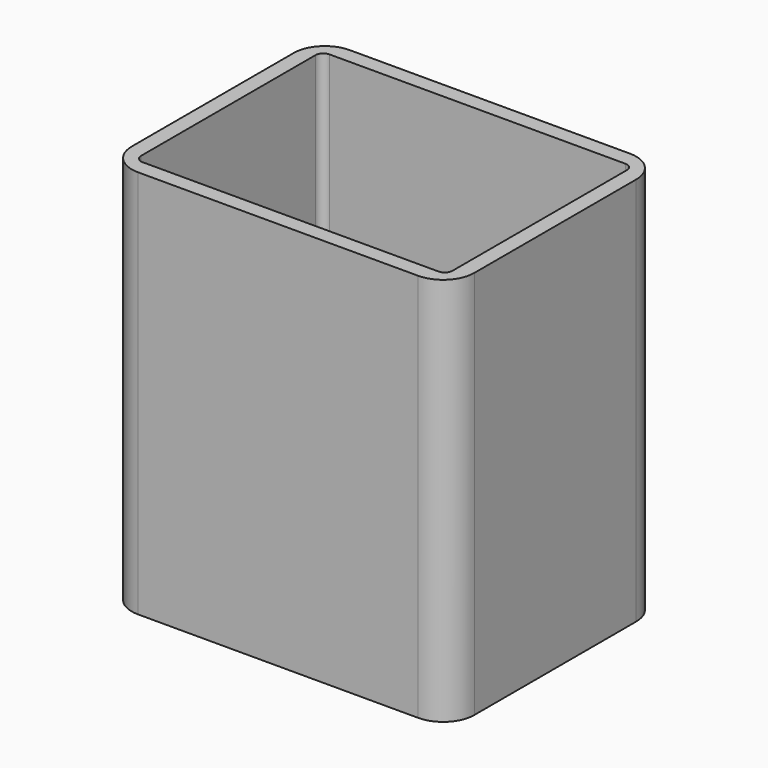
from build123d import *

# Parameters (mm, degrees)
F0_W     = 22
F0_H     = 17
F0_W_2   = 20
F0_H_2   = 15
F1_DEPTH = 25
F2_R     = 2
F3_W     = 0.3
F3_H     = 1
F4_DEPTH = 3
F5_R     = 0.5


with BuildPart() as f1:
    # F0 (on Top) → F1 (new body)
    with BuildSketch(Plane.XY):
        with Locations((11, 8.5)):
            Rectangle(F0_W, F0_H)
        with Locations((11, 8.5)):
            Rectangle(F0_W_2, F0_H_2, mode=Mode.SUBTRACT)
    extrude(amount=F1_DEPTH)

    # F2
    f2_edges = [f1.edges().sort_by_distance(p)[0] for p in [
        (0, 17, 12.5),
        (0, 0, 12.5),
        (22, 0, 12.5),
        (22, 17, 12.5),
    ]]
    fillet(f2_edges, radius=F2_R)

    # F3 (on face) → F4 (cut)
    with BuildSketch(Plane(origin=(0, 0, 0), x_dir=(1, 0, 0), z_dir=(0, 0, -1))):
        with Locations((21.15, -8.5)):
            Rectangle(F3_W, F3_H)
    extrude(amount=-F4_DEPTH, mode=Mode.SUBTRACT)

    # F5
    f5_edges = [f1.edges().sort_by_distance(p)[0] for p in [
        (21, 1, 12.5),
        (1, 1, 12.5),
        (1, 16, 12.5),
        (21, 16, 12.5),
    ]]
    fillet(f5_edges, radius=F5_R)


solid = f1.part
